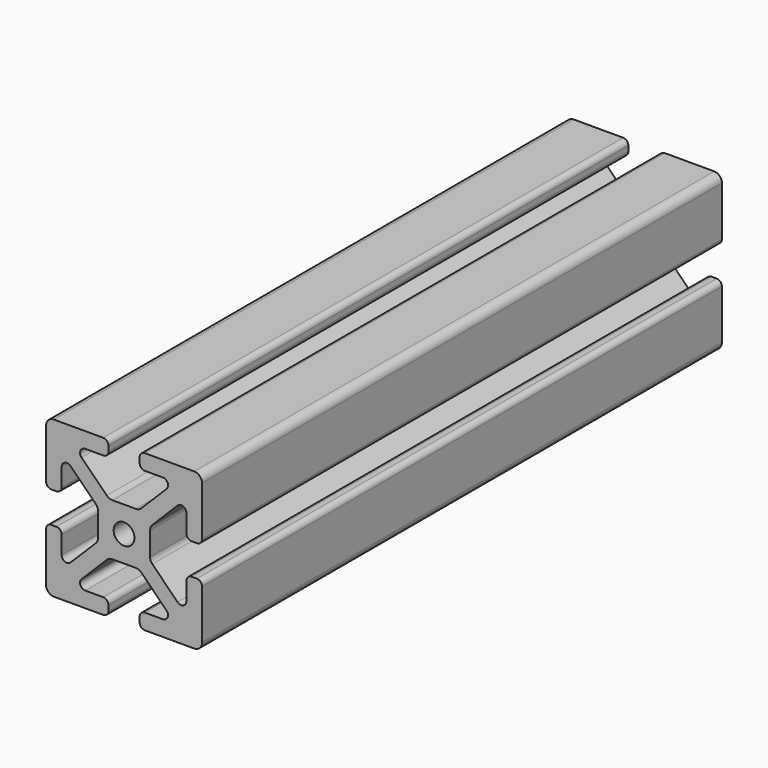
from build123d import *

# Parameters (mm, degrees)
F0_R     = 2
F1_DEPTH = 125


with BuildPart() as f1:
    # F0 (on Front) → F1 (new body)
    with BuildSketch(Plane.XZ):
        with BuildLine():
            ThreePointArc((15, 13.5), (14.56066, 14.56066), (13.5, 15))
            Line((13.5, 15), (4, 15))
            ThreePointArc((4, 15), (3.292893, 14.707107), (3, 14))
            Line((3, 14), (3, 13))
            ThreePointArc((3, 13), (3.292893, 12.292893), (4, 12))
            Line((4, 12), (7.464466, 12))
            ThreePointArc((7.464466, 12), (8.388346, 11.382683), (8.171573, 10.292893))
            Line((8.171573, 10.292893), (3.318019, 5.43934))
            ThreePointArc((3.318019, 5.43934), (2.831384, 5.114181), (2.257359, 5))
            Line((2.257359, 5), (-2.257359, 5))
            ThreePointArc((-2.257359, 5), (-2.831384, 5.114181), (-3.318019, 5.43934))
            Line((-3.318019, 5.43934), (-8.171573, 10.292893))
            ThreePointArc((-8.171573, 10.292893), (-8.388346, 11.382683), (-7.464466, 12))
            Line((-7.464466, 12), (-4, 12))
            ThreePointArc((-4, 12), (-3.292893, 12.292893), (-3, 13))
            Line((-3, 13), (-3, 14))
            ThreePointArc((-3, 14), (-3.292893, 14.707107), (-4, 15))
            Line((-4, 15), (-13.5, 15))
            ThreePointArc((-13.5, 15), (-14.56066, 14.56066), (-15, 13.5))
            Line((-15, 13.5), (-15, 4))
            ThreePointArc((-15, 4), (-14.707107, 3.292893), (-14, 3))
            Line((-14, 3), (-13, 3))
            ThreePointArc((-13, 3), (-12.292893, 3.292893), (-12, 4))
            Line((-12, 4), (-12, 7.464466))
            ThreePointArc((-12, 7.464466), (-11.382683, 8.388346), (-10.292893, 8.171573))
            Line((-10.292893, 8.171573), (-5.43934, 3.318019))
            ThreePointArc((-5.43934, 3.318019), (-5.114181, 2.831384), (-5, 2.257359))
            Line((-5, 2.257359), (-5, -2.257359))
            ThreePointArc((-5, -2.257359), (-5.114181, -2.831384), (-5.43934, -3.318019))
            Line((-5.43934, -3.318019), (-10.292893, -8.171573))
            ThreePointArc((-10.292893, -8.171573), (-11.382683, -8.388346), (-12, -7.464466))
            Line((-12, -7.464466), (-12, -4))
            ThreePointArc((-12, -4), (-12.292893, -3.292893), (-13, -3))
            Line((-13, -3), (-14, -3))
            ThreePointArc((-14, -3), (-14.707107, -3.292893), (-15, -4))
            Line((-15, -4), (-15, -13.5))
            ThreePointArc((-15, -13.5), (-14.56066, -14.56066), (-13.5, -15))
            Line((-13.5, -15), (-4, -15))
            ThreePointArc((-4, -15), (-3.292893, -14.707107), (-3, -14))
            Line((-3, -14), (-3, -13))
            ThreePointArc((-3, -13), (-3.292893, -12.292893), (-4, -12))
            Line((-4, -12), (-7.464466, -12))
            ThreePointArc((-7.464466, -12), (-8.388346, -11.382683), (-8.171573, -10.292893))
            Line((-8.171573, -10.292893), (-3.318019, -5.43934))
            ThreePointArc((-3.318019, -5.43934), (-2.831384, -5.114181), (-2.257359, -5))
            Line((-2.257359, -5), (2.257359, -5))
            ThreePointArc((2.257359, -5), (2.831384, -5.114181), (3.318019, -5.43934))
            Line((3.318019, -5.43934), (8.171573, -10.292893))
            ThreePointArc((8.171573, -10.292893), (8.388346, -11.382683), (7.464466, -12))
            Line((7.464466, -12), (4, -12))
            ThreePointArc((4, -12), (3.292893, -12.292893), (3, -13))
            Line((3, -13), (3, -14))
            ThreePointArc((3, -14), (3.292893, -14.707107), (4, -15))
            Line((4, -15), (13.5, -15))
            ThreePointArc((13.5, -15), (14.56066, -14.56066), (15, -13.5))
            Line((15, -13.5), (15, -4))
            ThreePointArc((15, -4), (14.707107, -3.292893), (14, -3))
            Line((14, -3), (13, -3))
            ThreePointArc((13, -3), (12.292893, -3.292893), (12, -4))
            Line((12, -4), (12, -7.464466))
            ThreePointArc((12, -7.464466), (11.382683, -8.388346), (10.292893, -8.171573))
            Line((10.292893, -8.171573), (5.43934, -3.318019))
            ThreePointArc((5.43934, -3.318019), (5.114181, -2.831384), (5, -2.257359))
            Line((5, -2.257359), (5, 2.257359))
            ThreePointArc((5, 2.257359), (5.114181, 2.831384), (5.43934, 3.318019))
            Line((5.43934, 3.318019), (10.292893, 8.171573))
            ThreePointArc((10.292893, 8.171573), (11.382683, 8.388346), (12, 7.464466))
            Line((12, 7.464466), (12, 4))
            ThreePointArc((12, 4), (12.292893, 3.292893), (13, 3))
            Line((13, 3), (14, 3))
            ThreePointArc((14, 3), (14.707107, 3.292893), (15, 4))
            Line((15, 4), (15, 13.5))
        make_face()
        Circle(F0_R, mode=Mode.SUBTRACT)
    extrude(amount=-F1_DEPTH)


solid = f1.part
